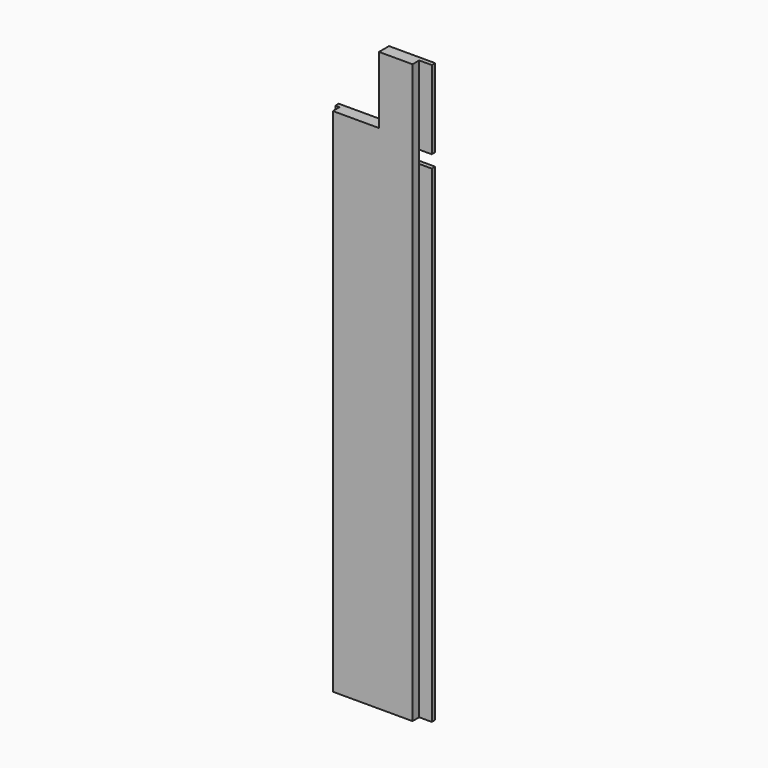
from build123d import *

# Parameters (mm, degrees)
F0_W     = 146.05
F0_H     = 438.15
F1_DEPTH = 9.525
F2_W     = 146.05
F2_H     = 19.05
F3_DEPTH = 6.35
F4_W     = 19.05
F4_H     = 876.3
F5_DEPTH = 12.7
F6_W     = 6.35
F6_H     = 876.3
F7_DEPTH = 12.7
F8_W     = 76.2
F8_H     = 101.6
F9_DEPTH = 19.051


with BuildPart() as f1:
    # F0 (on Front) → F1 (new body, symmetric)
    with BuildSketch(Plane.XZ):
        with Locations((-174.8789953259, 219.075)):
            Rectangle(F0_W, F0_H)
        with Locations((-174.8789953259, -219.075)):
            Rectangle(F0_W, F0_H)
    extrude(amount=F1_DEPTH, both=True)

    # F2 (on face) → F3 (cut)
    with BuildSketch(Plane(origin=(0, 9.525, 0), x_dir=(-1, 0, 0), z_dir=(0, 1, 0))):
        with Locations((174.8789953259, 309.5625)):
            Rectangle(F2_W, F2_H)
    extrude(amount=-F3_DEPTH, mode=Mode.SUBTRACT)

    # F4 (on face) → F5 (cut)
    with BuildSketch(Plane.XZ.offset(9.525)):
        with Locations((-111.3789953259, 0)):
            Rectangle(F4_W, F4_H)
    extrude(amount=-F5_DEPTH, mode=Mode.SUBTRACT)

    # F6 (on face) → F7 (cut)
    with BuildSketch(Plane.XZ.offset(9.525)):
        with Locations((-244.7289953259, 0)):
            Rectangle(F6_W, F6_H)
    extrude(amount=-F7_DEPTH, mode=Mode.SUBTRACT)

    # F8 (on face) → F9 (cut, through all)
    with BuildSketch(Plane(origin=(0, 9.525, 0), x_dir=(-1, 0, 0), z_dir=(0, 1, 0))):
        with Locations((209.8039953259, 387.35)):
            Rectangle(F8_W, F8_H)
    extrude(amount=-F9_DEPTH, mode=Mode.SUBTRACT)


solid = f1.part
